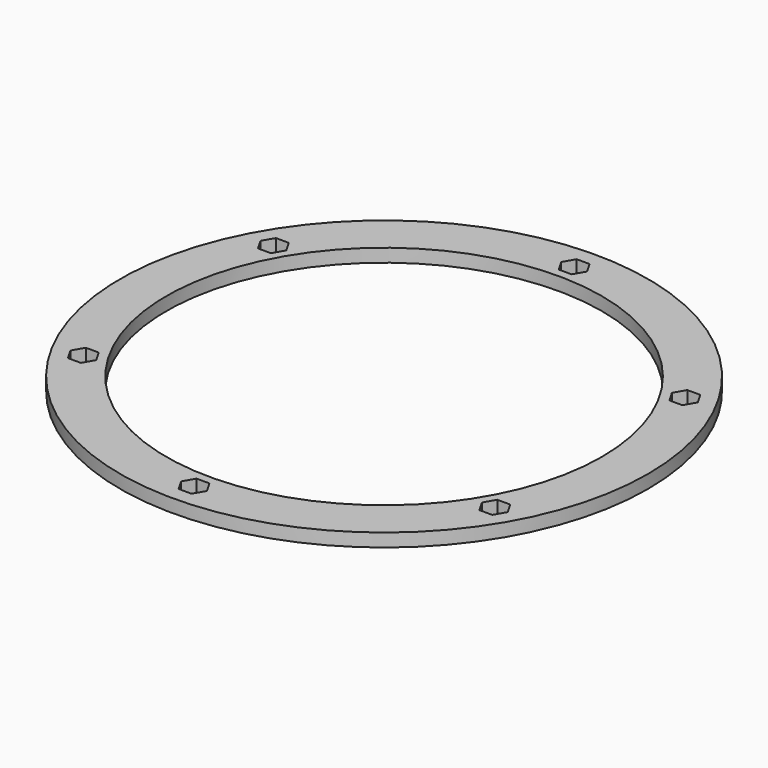
from build123d import *

# Parameters (mm, degrees)
F0_R     = 50.8
F0_R_2   = 41.91
F1_DEPTH = 2.54


with BuildPart() as f1:
    # F0 (on Top) → F1 (new body)
    with BuildSketch(Plane.XY):
        Circle(F0_R)
        Polygon((2.492998, -45.72), (1.246499, -47.879), (-1.246499, -47.879), (-2.492998, -45.72), (-1.246499, -43.561), (1.246499, -43.561), align=None, mode=Mode.SUBTRACT)
        Polygon((-38.348182, -25.019), (-40.841181, -25.019), (-42.08768, -22.86), (-40.841181, -20.701), (-38.348182, -20.701), (-37.101683, -22.86), align=None, mode=Mode.SUBTRACT)
        Circle(F0_R_2, mode=Mode.SUBTRACT)
        Polygon((40.841181, -20.701), (42.08768, -22.86), (40.841181, -25.019), (38.348182, -25.019), (37.101683, -22.86), (38.348182, -20.701), align=None, mode=Mode.SUBTRACT)
        Polygon((-40.841181, 20.701), (-42.08768, 22.86), (-40.841181, 25.019), (-38.348182, 25.019), (-37.101683, 22.86), (-38.348182, 20.701), align=None, mode=Mode.SUBTRACT)
        Polygon((-2.492998, 45.72), (-1.246499, 47.879), (1.246499, 47.879), (2.492998, 45.72), (1.246499, 43.561), (-1.246499, 43.561), align=None, mode=Mode.SUBTRACT)
        Polygon((38.348182, 25.019), (40.841181, 25.019), (42.08768, 22.86), (40.841181, 20.701), (38.348182, 20.701), (37.101683, 22.86), align=None, mode=Mode.SUBTRACT)
    extrude(amount=F1_DEPTH)


solid = f1.part
